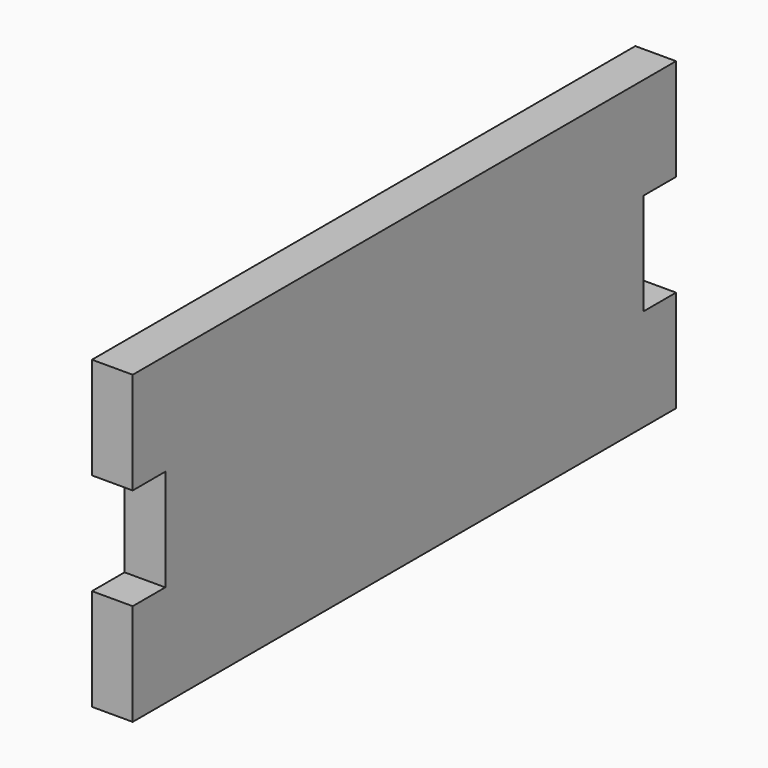
from build123d import *

# Parameters (mm, degrees)
F1_DEPTH = 6


with BuildPart() as f1:
    # F0 (on Right) → F1 (new body, symmetric)
    with BuildSketch(Plane.YZ):
        Polygon((100, 90), (100, 0), (200, 0), (200, 30), (188, 30), (188, 60), (200, 60), (200, 90), align=None)
        Polygon((0, 30), (0, 0), (100, 0), (100, 90), (0, 90), (0, 60), (12, 60), (12, 30), align=None)
    extrude(amount=F1_DEPTH, both=True)


solid = f1.part
